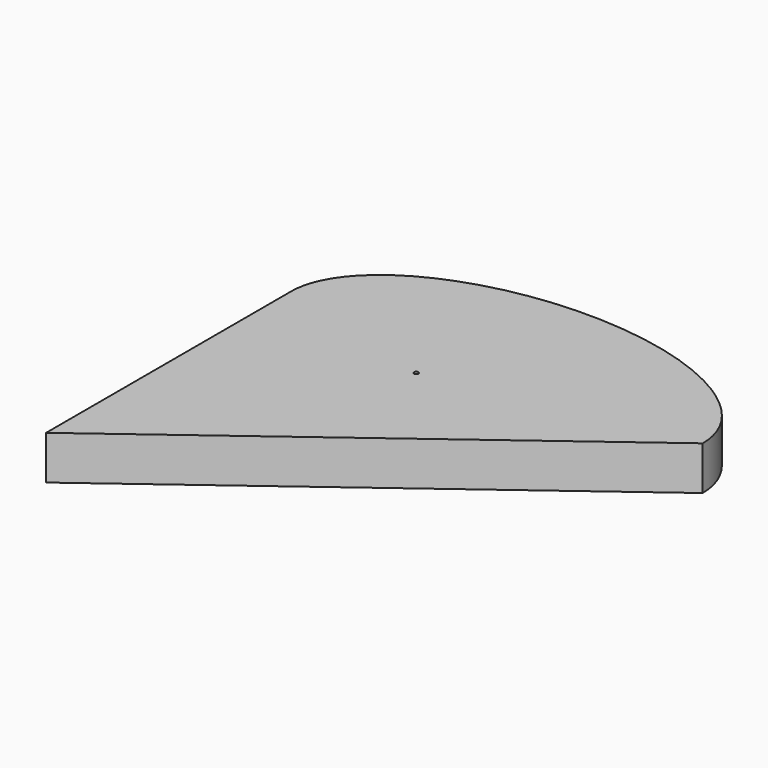
from build123d import *

# Parameters (mm, degrees)
F1_DEPTH = 10
F3_DEPTH = 10.0010001


with BuildPart() as f1:
    # F0 (on Top) → F1 (new body)
    with BuildSketch(Plane.XY):
        with BuildLine():
            Line((13.5733824303, -24.89216202), (47, 0))
            add(Edge.make_bspline(
                [(47, 0), (47, 26.0000000061), (-1.1e-08, 26), (-47.0000000221, 25.9999999939), (-47, -1.22e-08)],
                knots=[0, 0, 0, 1.570796327, 1.570796327, 3.1415926541, 3.1415926541, 3.1415926541], degree=2, weights=[1, 0.7071067811, 1, 0.7071067811, 1]))
            add(Edge.make_bspline(
                [(-47, -1.22e-08), (-46.9999999703, -34.999999995), (13.5733824303, -24.89216202)],
                knots=[3.1415926541, 3.1415926541, 3.1415926541, 5.0053573372, 5.0053573372, 5.0053573372], degree=2, weights=[1, 0.5963240015, 1]))
        make_face()
        with BuildLine():
            add(Edge.make_bspline(
                [(-47, -1.22e-08), (-46.9999999703, -34.999999995), (13.5733824303, -24.89216202)],
                knots=[3.1415926541, 3.1415926541, 3.1415926541, 5.0053573372, 5.0053573372, 5.0053573372], degree=2, weights=[1, 0.5963240015, 1]))
            Line((-47, -1.22e-08), (-47, -70))
            Line((-47, -70), (13.5733824303, -24.89216202))
        make_face()
    extrude(amount=F1_DEPTH)

    # F2 (on face) → F3 (cut, through all)
    with BuildSketch(Plane.XY.offset(10)):
        with BuildLine():
            ThreePointArc((-9.89, -10.17), (-10.2435533906, -11.0235533906), (-9.39, -10.67))
            ThreePointArc((-9.39, -10.67), (-9.5364466094, -10.3164466094), (-9.89, -10.17))
        make_face()
    extrude(amount=-F3_DEPTH, mode=Mode.SUBTRACT)


solid = f1.part
